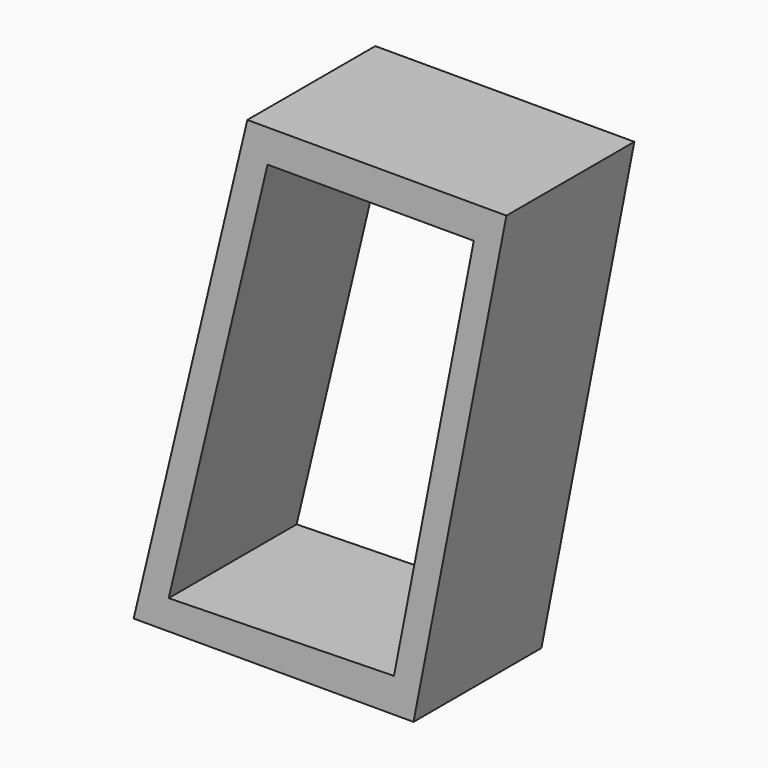
from build123d import *

# Parameters (mm, degrees)
F1_DEPTH = 25.4
F3_DEPTH = 76.2


with BuildPart() as f1:
    # F0 (on Front) → F1 (new body)
    with BuildSketch(Plane.XZ):
        Polygon((-13.7051350082, 16.8883286435), (-26.3921742729, 53.2255535693), (-26.3921742729, 0.6902879767), align=None)
        Polygon((14.7558257271, 53.2255535693), (-26.3921742729, 53.2255535693), (-13.7051350082, 16.8883286435), align=None)
        Polygon((-26.3921742729, 0.6902879767), (-26.3921742729, 53.2255535693), (-44.45, -22.3648464307), align=None)
        Polygon((0, -22.3648464307), (14.7558257271, 53.2255535693), (-13.7051350082, 16.8883286435), align=None)
        Polygon((-13.7051350082, 16.8883286435), (-26.3921742729, 0.6902879767), (-26.3921742729, -22.3648464307), (0, -22.3648464307), align=None)
        Polygon((-26.3921742729, -22.3648464307), (-26.3921742729, 0.6902879767), (-44.45, -22.3648464307), align=None)
    extrude(amount=F1_DEPTH)

    # F2 (on face) → F3 (cut)
    with BuildSketch(Plane.XZ.offset(25.4)):
        Polygon((-23.1811909748, 48.0245661533), (-38.8834774494, -17.7055019885), (-3.1070883466, -16.9359126502), (9.5736952499, 48.0245661533), align=None)
    extrude(amount=-F3_DEPTH, mode=Mode.SUBTRACT)


solid = f1.part
